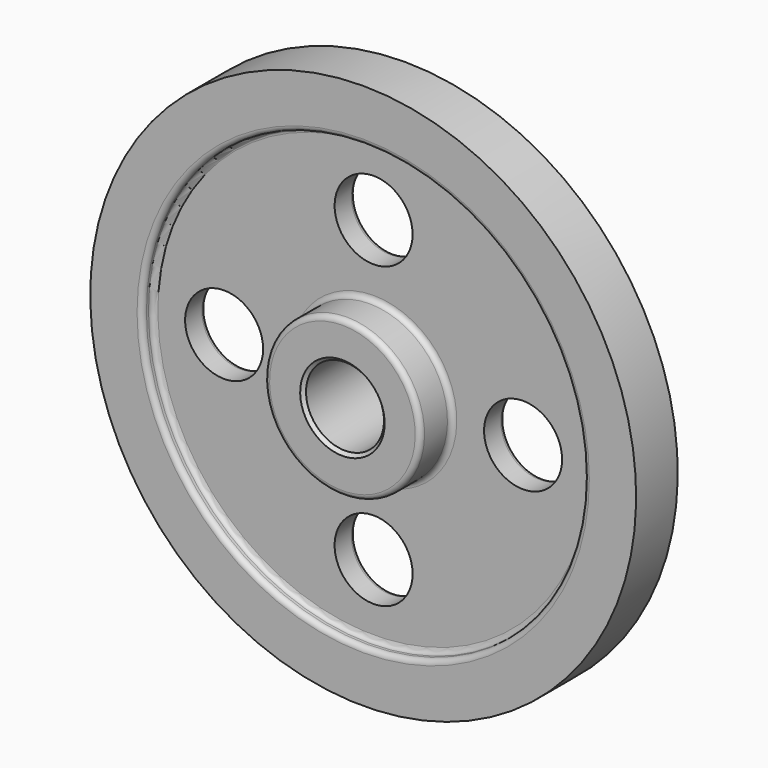
from build123d import *

# Parameters (mm, degrees)
F2_R     = 19.05
F3_DEPTH = 25.4
F4_R     = 2.54
F5_SIZE  = 1.5875


with BuildPart() as f1:
    # F0 (on Right) → F1 (revolve)
    with BuildSketch(Plane.YZ):
        Polygon((-25.4, 19.05), (0, 19.05), (25.4, 19.05), (25.4, 38.1), (6.35, 38.1), (6.35, 107.95), (12.7, 107.95), (12.7, 133.35), (0, 133.35), (-12.7, 133.35), (-12.7, 107.95), (-6.35, 107.95), (-6.35, 38.1), (-25.4, 38.1), align=None)
    revolve(axis=Axis((0, 63.7032, 0), (0, 1, 0)))

    # F2 (on face) → F3 (cut)
    with BuildSketch(Plane.XZ.offset(6.35)):
        with BuildLine():
            ThreePointArc((19.05, 73.025), (-13.4703841816, 86.4953841816), (0, 53.975))
            ThreePointArc((0, 53.975), (13.4703841816, 59.5546158184), (19.05, 73.025))
        make_face()
        with Locations((73.025, 0)):
            Circle(F2_R)
        with Locations((0, -73.025)):
            Circle(F2_R)
        with Locations((-73.025, 0)):
            Circle(F2_R)
    extrude(amount=-F3_DEPTH, mode=Mode.SUBTRACT)

    # F4
    f4_edges = [f1.edges().sort_by_distance(p)[0] for p in [
        (0, -12.7, -107.95),
        (0, -6.35, -107.95),
        (0, -6.35, -38.1),
        (0, -25.4, -38.1),
        (0, 12.7, -107.95),
        (0, 6.35, -107.95),
        (-92.075, 6.35, 0),
        (0, 6.35, 92.075),
        (0, 6.35, -38.1),
        (-19.05, 6.35, -73.025),
        (53.975, 6.35, 0),
        (0, 25.4, -38.1),
    ]]
    fillet(f4_edges, radius=F4_R)

    # F5
    f5_edges = [f1.edges().sort_by_distance(p)[0] for p in [
        (0, 25.4, -19.05),
        (0, -25.4, -19.05),
    ]]
    chamfer(f5_edges, length=F5_SIZE)


solid = f1.part
